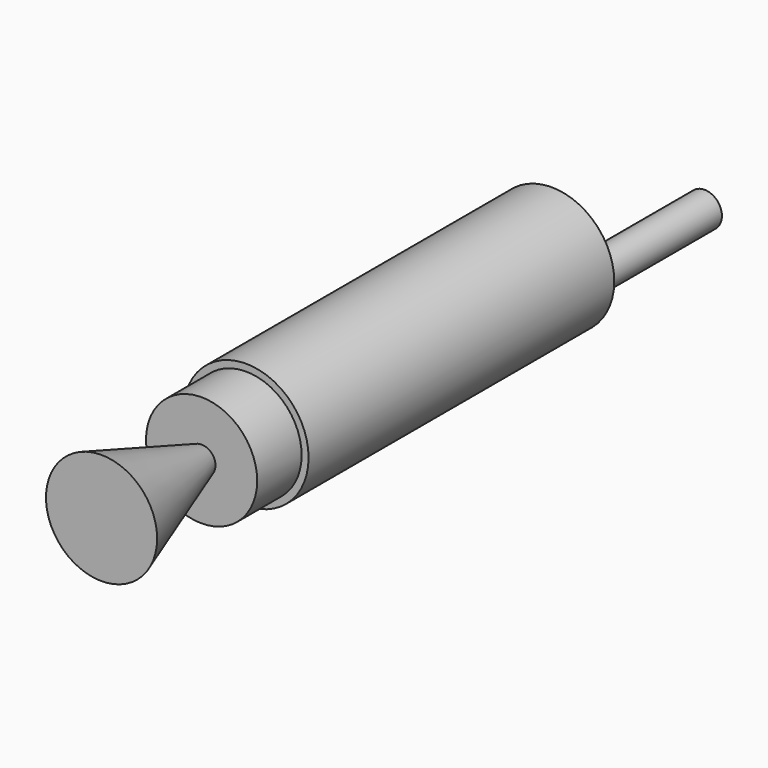
from build123d import *

# Parameters (mm, degrees)
CYLINDER_R             = 9
CYLINDER_DEPTH         = 55
CYLINDER_ROLL_ANGLE    = 90
CYLINDER001_R          = 8
CYLINDER001_DEPTH      = 8
CYLINDER001_ROLL_ANGLE = 90
CONE_ROLL_ANGLE        = 90
CYLINDER002_R          = 2.5
CYLINDER002_DEPTH      = 20
CYLINDER002_ROLL_ANGLE = 90
SPHERE_ROLL_ANGLE      = 90


with BuildPart() as cylinder:
    # Cylinder → Cylinder (new body)
    with BuildSketch(Plane.XY):
        Circle(CYLINDER_R)
    extrude(amount=CYLINDER_DEPTH)


with BuildPart() as cylinder_1:
    # Cylinder roll: moved
    add(cylinder.part.rotate(Axis((0, 0, 0), (1, 0, 0)), CYLINDER_ROLL_ANGLE))


with BuildPart() as cylinder_2:
    # Cylinder placement: moved
    add(cylinder_1.part.moved(Location((12, 6, 6))))


with BuildPart() as cylinder001:
    # Cylinder001 → Cylinder001 (new body)
    with BuildSketch(Plane.XY):
        Circle(CYLINDER001_R)
    extrude(amount=CYLINDER001_DEPTH)


with BuildPart() as cylinder001_1:
    # Cylinder001 roll: moved
    add(cylinder001.part.rotate(Axis((0, 0, 0), (1, 0, 0)), CYLINDER001_ROLL_ANGLE))


with BuildPart() as cylinder001_2:
    # Cylinder001 placement: moved
    add(cylinder001_1.part.moved(Location((12, -49, 6))))


with BuildPart() as cone:
    # Cone → Cone (revolve)
    with BuildSketch(Plane.XZ):
        Polygon((0, 0), (2, 0), (8, 18), (0, 18), align=None)
    revolve(axis=Axis((0, 0, 0), (0, 0, 1)))


with BuildPart() as cone_1:
    # Cone roll: moved
    add(cone.part.rotate(Axis((0, 0, 0), (1, 0, 0)), CONE_ROLL_ANGLE))


with BuildPart() as cone_2:
    # Cone placement: moved
    add(cone_1.part.moved(Location((12, -57, 6))))


with BuildPart() as cylinder002:
    # Cylinder002 → Cylinder002 (new body)
    with BuildSketch(Plane.XY):
        Circle(CYLINDER002_R)
    extrude(amount=CYLINDER002_DEPTH)


with BuildPart() as cylinder002_1:
    # Cylinder002 roll: moved
    add(cylinder002.part.rotate(Axis((0, 0, 0), (1, 0, 0)), CYLINDER002_ROLL_ANGLE))


with BuildPart() as cylinder002_2:
    # Cylinder002 placement: moved
    add(cylinder002_1.part.moved(Location((18, 26, 6))))


with BuildPart() as sphere:
    # Sphere → Sphere (revolve)
    with BuildSketch(Plane.XZ):
        with BuildLine():
            ThreePointArc((0, -2), (2, 0), (0, 2))
            Line((0, 2), (0, -2))
        make_face()
    revolve(axis=Axis((0, 0, 0), (0, 0, 1)))


with BuildPart() as sphere_1:
    # Sphere roll: moved
    add(sphere.part.rotate(Axis((0, 0, 0), (1, 0, 0)), SPHERE_ROLL_ANGLE))


with BuildPart() as sphere_2:
    # Sphere placement: moved
    add(sphere_1.part.moved(Location((15, 6, 10))))


solid = Compound([cylinder_2.part, cylinder001_2.part, cone_2.part, cylinder002_2.part, sphere_2.part])
